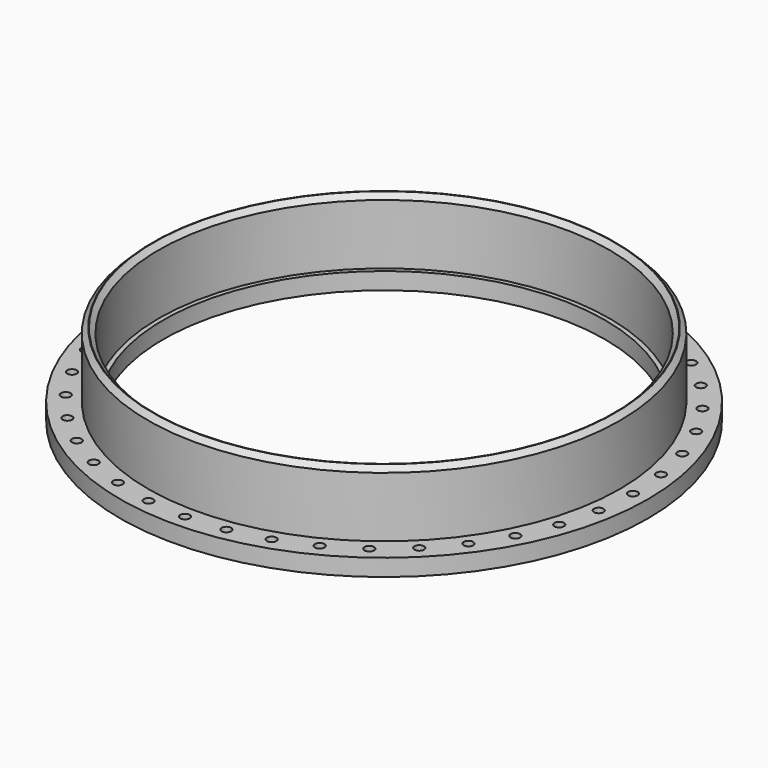
from build123d import *

# Parameters (mm, degrees)
F0_R     = 497.5
F0_R_2   = 416.5
F1_DEPTH = 32
F2_R     = 445
F2_R_2   = 425
F3_DEPTH = 123
F6_R     = 9
F7_DEPTH = 155.001


with BuildPart() as f1:
    # F0 (on Top) → F1 (new body)
    with BuildSketch(Plane.XY):
        Circle(F0_R)
        Circle(F0_R_2, mode=Mode.SUBTRACT)
    extrude(amount=F1_DEPTH)

    # F2 (on face) → F3 (join)
    with BuildSketch(Plane.XY.offset(32)):
        Circle(F2_R)
        Circle(F2_R_2, mode=Mode.SUBTRACT)
    extrude(amount=F3_DEPTH)

    # F4 (on Right) → F5 (revolve, cut)
    with BuildSketch(Plane.YZ):
        Polygon((-445, 155), (-445, 145.5), (-435.5, 155), align=None)
        Polygon((-425, 155), (-434.5, 155), (-425, 145.5), align=None)
    revolve(axis=Axis((0, 0, 155), (0, 0, 1)), mode=Mode.SUBTRACT)

    # F6 (on face) → F7 (cut, through all)
    with BuildSketch(Plane(origin=(0, 0, 0), x_dir=(1, 0, 0), z_dir=(0, 0, -1))):
        with Locations((0, 469)):
            Circle(F6_R)
        with Locations((73.367764, 463.225832)):
            Circle(F6_R)
        with Locations((144.92897, 446.045506)):
            Circle(F6_R)
        with Locations((212.921544, 417.88206)):
            Circle(F6_R)
        with Locations((275.671283, 379.42897)):
            Circle(F6_R)
        with Locations((331.63308, 331.63308)):
            Circle(F6_R)
        with Locations((379.42897, 275.671283)):
            Circle(F6_R)
        with Locations((417.88206, 212.921544)):
            Circle(F6_R)
        with Locations((446.045506, 144.92897)):
            Circle(F6_R)
        with Locations((463.225832, 73.367764)):
            Circle(F6_R)
        with Locations((469, 0)):
            Circle(F6_R)
        with Locations((463.225832, -73.367764)):
            Circle(F6_R)
        with Locations((446.045506, -144.92897)):
            Circle(F6_R)
        with Locations((417.88206, -212.921544)):
            Circle(F6_R)
        with Locations((379.42897, -275.671283)):
            Circle(F6_R)
        with Locations((331.63308, -331.63308)):
            Circle(F6_R)
        with Locations((275.671283, -379.42897)):
            Circle(F6_R)
        with Locations((212.921544, -417.88206)):
            Circle(F6_R)
        with Locations((144.92897, -446.045506)):
            Circle(F6_R)
        with Locations((73.367764, -463.225832)):
            Circle(F6_R)
        with Locations((0, -469)):
            Circle(F6_R)
        with Locations((-73.367764, -463.225832)):
            Circle(F6_R)
        with Locations((-144.92897, -446.045506)):
            Circle(F6_R)
        with Locations((-212.921544, -417.88206)):
            Circle(F6_R)
        with Locations((-275.671283, -379.42897)):
            Circle(F6_R)
        with Locations((-331.63308, -331.63308)):
            Circle(F6_R)
        with Locations((-379.42897, -275.671283)):
            Circle(F6_R)
        with Locations((-417.88206, -212.921544)):
            Circle(F6_R)
        with Locations((-463.225832, -73.367764)):
            Circle(F6_R)
        with Locations((-469, 0)):
            Circle(F6_R)
        with Locations((-463.225832, 73.367764)):
            Circle(F6_R)
        with Locations((-446.045506, 144.92897)):
            Circle(F6_R)
        with Locations((-417.88206, 212.921544)):
            Circle(F6_R)
        with Locations((-379.42897, 275.671283)):
            Circle(F6_R)
        with Locations((-331.63308, 331.63308)):
            Circle(F6_R)
        with Locations((-275.671283, 379.42897)):
            Circle(F6_R)
        with Locations((-212.921544, 417.88206)):
            Circle(F6_R)
        with Locations((-144.92897, 446.045506)):
            Circle(F6_R)
        with Locations((-73.367764, 463.225832)):
            Circle(F6_R)
    extrude(amount=-F7_DEPTH, mode=Mode.SUBTRACT)


solid = f1.part
